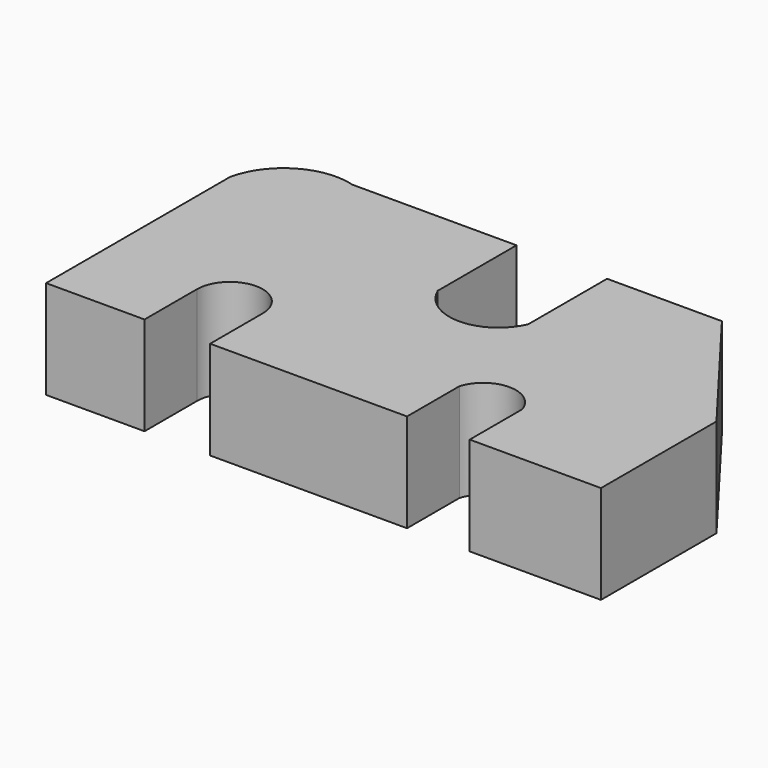
from build123d import *

# Parameters (mm, degrees)
F1_DEPTH = 30


with BuildPart() as f1:
    # F0 (on Top) → F1 (new body)
    with BuildSketch(Plane.XY):
        with BuildLine():
            Line((8.036751, 47.808975), (-41.963249, 47.808975))
            ThreePointArc((-41.963249, 47.808975), (-57.904896, 45.774272), (-67.202643, 32.665953))
            Line((-67.202643, 32.665953), (-67.202643, -37.334047))
            Line((-67.202643, -37.334047), (-37.202643, -37.334047))
            Line((-37.202643, -37.334047), (-37.202643, -17.334047))
            ThreePointArc((-37.202643, -17.334047), (-27.202643, -7.334047), (-17.202643, -17.334047))
            Line((-17.202643, -17.334047), (-17.202643, -37.334047))
            Line((-17.202643, -37.334047), (42.797357, -37.334047))
            Line((42.797357, -37.334047), (42.797357, -17.334047))
            ThreePointArc((42.797357, -17.334047), (52.347088, -10.300972), (61.896819, -17.334047))
            Line((61.896819, -17.334047), (61.896819, -37.334047))
            Line((61.896819, -37.334047), (101.896819, -37.334047))
            Line((101.896819, -37.334047), (101.896819, 6.665953))
            Line((101.896819, 6.665953), (70.641249, 47.808975))
            Line((70.641249, 47.808975), (35.641249, 47.808975))
            Line((35.641249, 47.808975), (35.641249, 17.808975))
            ThreePointArc((35.641249, 17.808975), (21.839, 8.682468), (8.036751, 17.808975))
            Line((8.036751, 17.808975), (8.036751, 47.808975))
        make_face()
    extrude(amount=F1_DEPTH)


solid = f1.part
